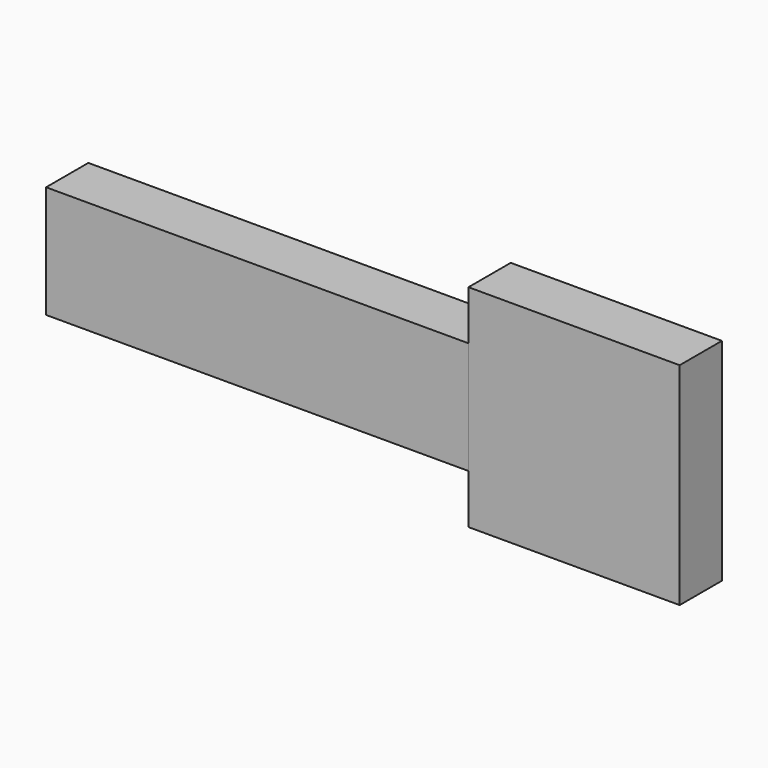
from build123d import *

# Parameters (mm, degrees)
F0_W     = 50.8
F0_H     = 50.8
F1_DEPTH = 12.7
F3_DEPTH = 101.6


with BuildPart() as f1:
    # F0 (on Front) → F1 (new body)
    with BuildSketch(Plane.XZ):
        Rectangle(F0_W, F0_H)
    extrude(amount=F1_DEPTH)


with BuildPart() as f3:
    # F2 (on face) → F3 (new body)
    with BuildSketch(Plane(origin=(-25.4, 0, 0), x_dir=(0, -1, 0), z_dir=(-1, 0, 0))):
        Polygon((12.7, 13.519572), (0, 13.519572), (0, 0), (0, -13.519582), (12.7, -13.519582), (12.7, 0), align=None)
    extrude(amount=F3_DEPTH)


solid = Compound([f1.part, f3.part])
